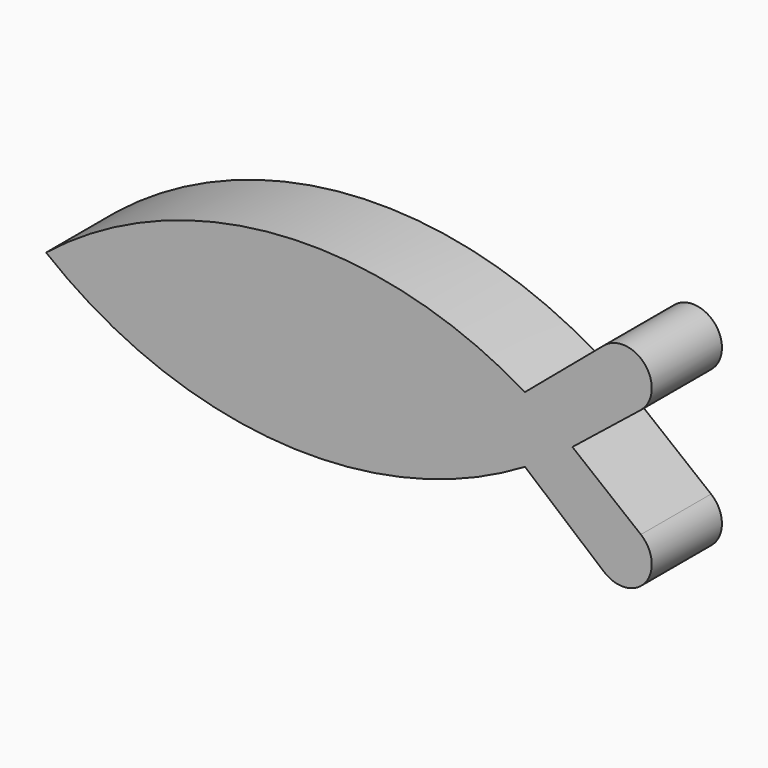
from build123d import *

# Parameters (mm, degrees)
F1_DEPTH = 25
F2_ANGLE = 180


with BuildPart() as f1:
    # F0 (on Front) → F1 (new body)
    with BuildSketch(Plane.XZ):
        with BuildLine():
            ThreePointArc((13.51559, -9.3768), (83.224894, -26.042828), (150, 0))
            ThreePointArc((150, 0), (83.224894, 26.042828), (13.51559, 9.3768))
            ThreePointArc((13.51559, 9.3768), (6.596932, 4.920265), (0, 0))
            ThreePointArc((0, 0), (6.596932, -4.920265), (13.51559, -9.3768))
        make_face()
        with BuildLine():
            ThreePointArc((0, 0), (6.596932, 4.920265), (13.51559, 9.3768))
            Line((13.51559, 9.3768), (-9.007419, 28.40198))
            ThreePointArc((-9.007419, 28.40198), (-20.734502, 27.33708), (-19.515619, 15.625))
            Line((-19.515619, 15.625), (0, 0))
        make_face()
        with BuildLine():
            Line((-9.007419, -28.40198), (13.51559, -9.3768))
            ThreePointArc((13.51559, -9.3768), (6.596932, -4.920265), (0, 0))
            Line((0, 0), (-19.515619, -15.625))
            ThreePointArc((-19.515619, -15.625), (-20.734502, -27.33708), (-9.007419, -28.40198))
        make_face()
    extrude(amount=-F1_DEPTH)


with BuildPart() as f1_1:
    # F2: moved
    add(f1.part.rotate(Axis((150, 12.5, 0), (0, -1, 0)), F2_ANGLE))


solid = f1_1.part
